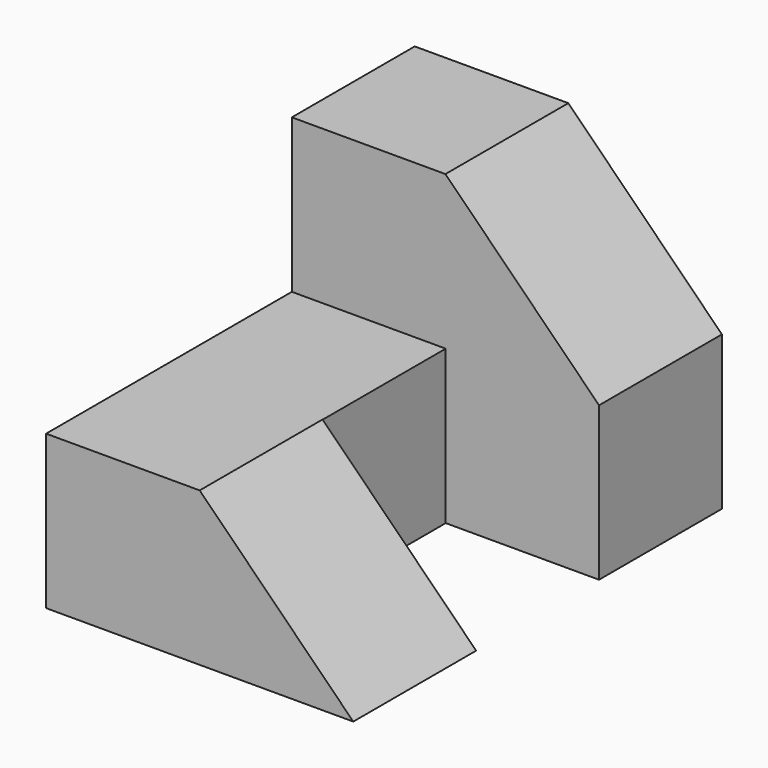
from build123d import *

# Parameters (mm, degrees)
F2_DEPTH = 76.2
F3_DEPTH = 50.8
F4_W     = 25.355122
F4_H     = 25.4
F5_DEPTH = 25.4
F7_DEPTH = 25.4


with BuildPart() as f2:
    # F0 (on Front) → F2 (new body)
    with BuildSketch(Plane.XZ):
        Polygon((0, 25.4), (0, 0), (50.8, 0), (50.8, 25.4), (25.4, 50.8), (0, 50.8), align=None)
    extrude(amount=-F2_DEPTH)

    # F1 (on Right) → F3 (cut)
    with BuildSketch(Plane.YZ):
        Polygon((50.8, 25.4), (50.8, 50.8), (0, 50.8), (0, 25.4), (25.4, 25.4), align=None)
    extrude(amount=F3_DEPTH, mode=Mode.SUBTRACT)

    # F4 (on Top) → F5 (cut)
    with BuildSketch(Plane.XY):
        with Locations((38.122439, 38.1)):
            Rectangle(F4_W, F4_H)
    extrude(amount=F5_DEPTH, mode=Mode.SUBTRACT)

    # F6 (on face) → F7 (cut)
    with BuildSketch(Plane.XZ):
        Polygon((25.4, 25.4), (50.8, 0), (50.8, 25.4), align=None)
    extrude(amount=-F7_DEPTH, mode=Mode.SUBTRACT)


solid = f2.part
